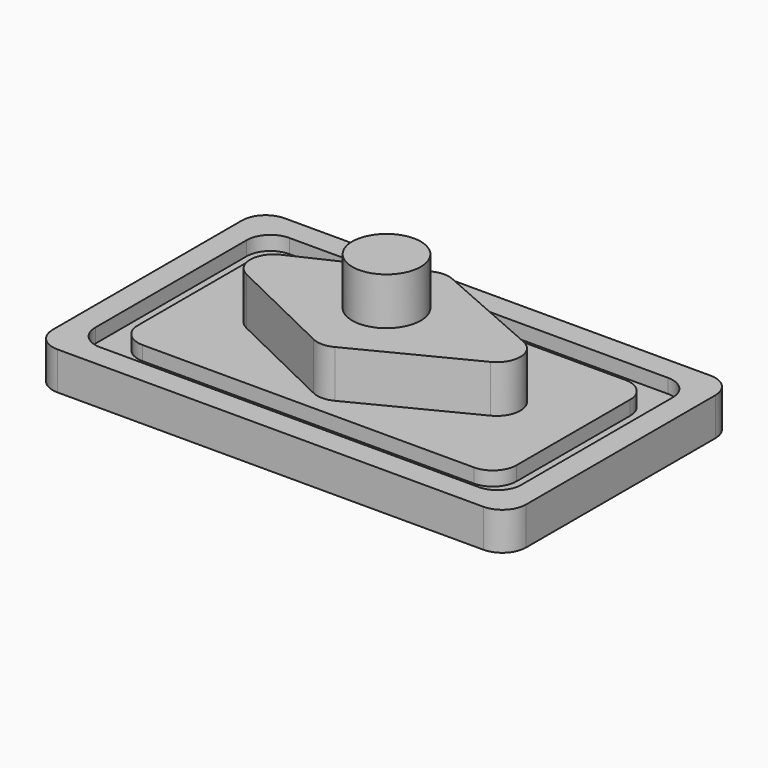
from build123d import *

# Parameters (mm, degrees)
F0_W     = 100
F0_H     = 60
F0_W_2   = 90
F0_H_2   = 50
F0_W_3   = 80
F0_H_3   = 40
F1_DEPTH = 8
F2_DEPTH = 5
F4_DEPTH = 10
F5_R     = 5
F6_R     = 7.243557
F7_DEPTH = 10
F8_R     = 5


with BuildPart() as f1:
    # F0 (on Top) → F1 (new body)
    with BuildSketch(Plane.XY):
        with Locations((9.720059, 5.494498)):
            Rectangle(F0_W, F0_H)
        with Locations((9.720059, 5.494498)):
            Rectangle(F0_W_2, F0_H_2, mode=Mode.SUBTRACT)
        with Locations((9.720059, 5.494498)):
            Rectangle(F0_W_3, F0_H_3)
    extrude(amount=F1_DEPTH)

    # F0 (on Top) → F2 (join)
    with BuildSketch(Plane.XY):
        with Locations((9.720059, 5.494498)):
            Rectangle(F0_W_2, F0_H_2)
        with Locations((9.720059, 5.494498)):
            Rectangle(F0_W_3, F0_H_3, mode=Mode.SUBTRACT)
    extrude(amount=F2_DEPTH)

    # F3 (on face) → F4 (join)
    with BuildSketch(Plane.XY.offset(8)):
        Polygon((9.720059, 21.794148), (-25.105188, 5.494498), (9.720059, -11.379591), (44.720059, 6.427957), align=None)
    extrude(amount=F4_DEPTH)

    # F5
    f5_edges = [f1.edges().sort_by_distance(p)[0] for p in [
        (54.720059, -19.505502, 6.5),
        (-35.279941, -19.505502, 6.5),
        (-35.279941, 30.494498, 6.5),
        (54.720059, 30.494498, 6.5),
        (-30.279941, 25.494498, 6.5),
        (-30.279941, -14.505502, 6.5),
        (49.720059, -14.505502, 6.5),
        (49.720059, 25.494498, 6.5),
        (44.720059, 6.427957, 13),
        (9.720059, 21.794148, 13),
        (9.720059, -11.379591, 13),
        (-25.105188, 5.494498, 13),
    ]]
    fillet(f5_edges, radius=F5_R)

    # F6 (on face) → F7 (join)
    with BuildSketch(Plane.XY.offset(18)):
        with Locations((9.861113, 5.972222)):
            Circle(F6_R)
    extrude(amount=F7_DEPTH)

    # F8
    f8_edges = [f1.edges().sort_by_distance(p)[0] for p in [
        (59.720059, -24.505502, 4),
        (-40.279941, -24.505502, 4),
        (-40.279941, 35.494498, 4),
        (59.720059, 35.494498, 4),
    ]]
    fillet(f8_edges, radius=F8_R)


solid = f1.part
